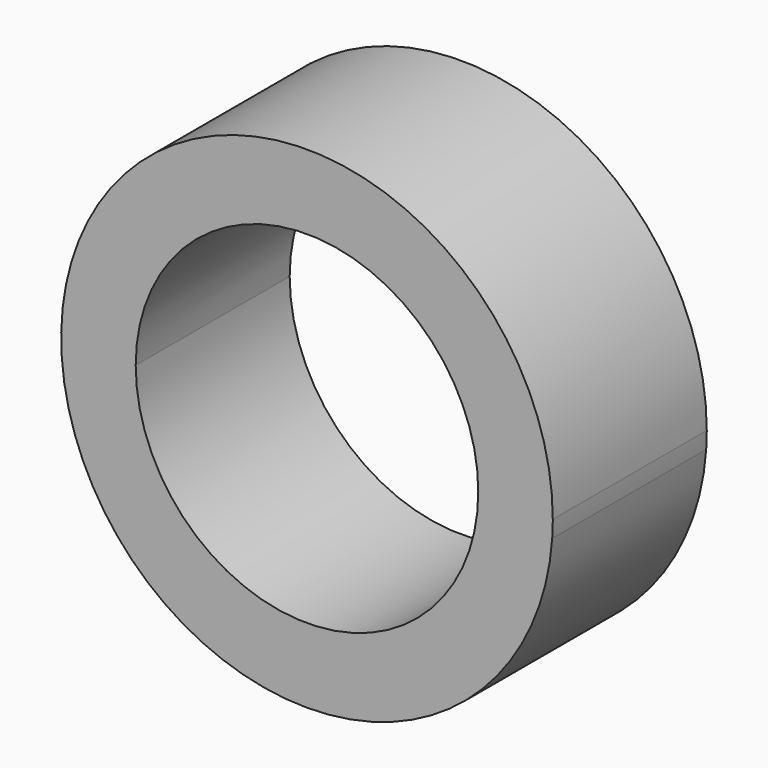
from build123d import *

# Parameters (mm, degrees)
F1_DEPTH = 25.4


with BuildPart() as f1:
    # F0 (on Front) → F1 (new body)
    with BuildSketch(Plane.XZ):
        with BuildLine():
            Line((32.358341, 50.063848), (32.358341, 47.82049))
            ThreePointArc((32.358341, 47.82049), (32.416589, 48.941497), (32.436012, 50.063848))
            ThreePointArc((32.436012, 50.063848), (-1.122351, 82.480437), (-32.358341, 47.82049))
            Line((-32.358341, 47.82049), (-32.358341, 50.063848))
            Line((-32.358341, 50.063848), (-22.602767, 50.063848))
            ThreePointArc((-22.602767, 50.063848), (0, 72.666616), (22.602767, 50.063848))
            Line((22.602767, 50.063848), (32.358341, 50.063848))
        make_face()
        with BuildLine():
            ThreePointArc((-32.358341, 47.82049), (0, 17.627836), (32.358341, 47.82049))
            Line((32.358341, 47.82049), (32.358341, 50.063848))
            Line((32.358341, 50.063848), (22.602767, 50.063848))
            ThreePointArc((22.602767, 50.063848), (0, 27.461081), (-22.602767, 50.063848))
            Line((-22.602767, 50.063848), (-32.358341, 50.063848))
            Line((-32.358341, 50.063848), (-32.358341, 47.82049))
        make_face()
    extrude(amount=F1_DEPTH)


solid = f1.part
